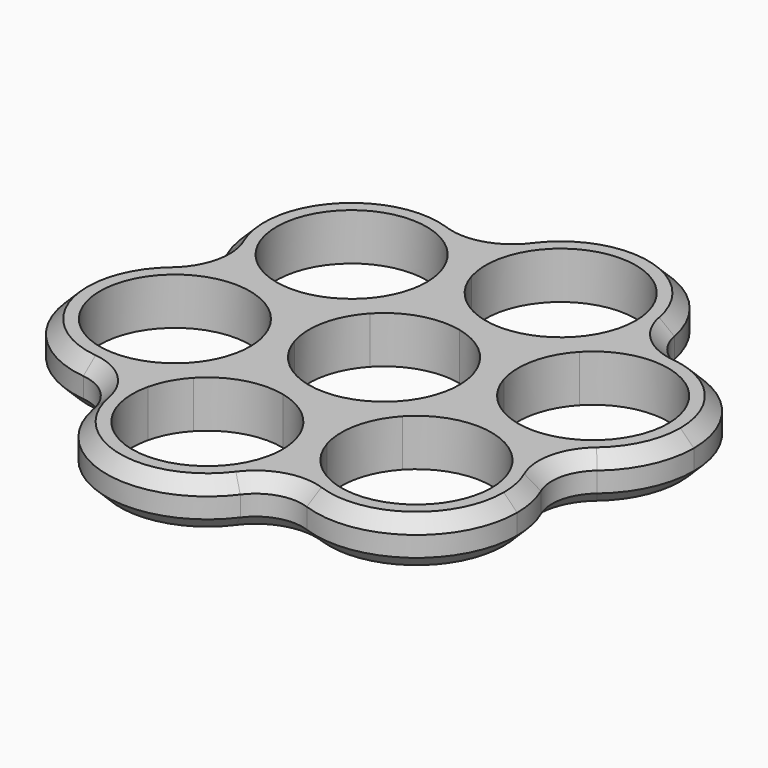
from build123d import *

# Parameters (mm, degrees)
F1_DEPTH = 7.0000002161
F2_R     = 7
F3_SIZE  = 2


with BuildPart() as f1:
    # F0 (on Top) → F1 (new body)
    with BuildSketch(Plane.XY):
        with BuildLine():
            ThreePointArc((-8.4351326883, 21.1270953256), (-9.0738701421, 24.8916615747), (-8.7414061831, 28.6955296448))
            ThreePointArc((-8.7414061831, 28.6955296448), (-8.8125213083, 28.7633007882), (-8.8840787432, 28.8306047437))
            Line((-8.8840787432, 28.8306047437), (-11.4955479594, 26.0358143163))
            ThreePointArc((-11.4955479594, 26.0358143163), (-9.6422177606, 23.7829104816), (-8.4351326883, 21.1270953256))
        make_face()
        with BuildLine():
            ThreePointArc((-26.7547210267, 9.7054702506), (-27.2903065259, 25.5002288171), (-11.4955479594, 26.0358143163))
            Line((-11.4955479594, 26.0358143163), (-8.8840787432, 28.8306047437))
            ThreePointArc((-8.8840787432, 28.8306047437), (-30.0850969532, 28.1116980333), (-29.3661902429, 6.9106798233))
            Line((-29.3661902429, 6.9106798233), (-26.7547210267, 9.7054702506))
        make_face()
        with BuildLine():
            ThreePointArc((-29.221760739, 6.777485003), (-25.4491514925, 7.3668602267), (-21.6499643665, 6.9846026404))
            ThreePointArc((-21.6499643665, 6.9846026404), (-24.3814472006, 8.0090094714), (-26.7547210267, 9.7054702506))
            Line((-26.7547210267, 9.7054702506), (-29.3661902429, 6.9106798233))
            ThreePointArc((-29.3661902429, 6.9106798233), (-29.2941935673, 6.8438459426), (-29.221760739, 6.777485003))
        make_face()
        with BuildLine():
            ThreePointArc((20.4803545559, 21.9180446418), (19.1044639174, 18.3561817107), (16.873825702, 15.2571180229))
            ThreePointArc((16.873825702, 15.2571180229), (19.126729384, 17.1104479973), (21.782544306, 18.3175329549))
            Line((21.782544306, 18.3175329549), (20.6679194058, 21.976526851))
            ThreePointArc((20.6679194058, 21.976526851), (20.5740412295, 21.9475928414), (20.4803545559, 21.9180446418))
        make_face()
        with BuildLine():
            ThreePointArc((28.2954505858, -3.0624705949), (25.417713525, -3.5410497115), (22.5141675883, -3.2585084667))
            ThreePointArc((22.5141675883, -3.2585084667), (26.0937463299, -4.5876287298), (29.221760739, -6.777485003))
            ThreePointArc((29.221760739, -6.777485003), (29.3160098334, -6.7497830698), (29.4100754861, -6.721464491))
            Line((29.4100754861, -6.721464491), (28.2954505858, -3.0624705949))
        make_face()
        with BuildLine():
            Line((20.6679194058, 21.976526851), (21.782544306, 18.3175329549))
            ThreePointArc((21.782544306, 18.3175329549), (31.6906799835, 16.6072719569), (36.2139974459, 7.62753118))
            ThreePointArc((36.2139974459, 7.62753118), (34.0187382228, 0.9758486424), (28.2954505858, -3.0624705949))
            Line((28.2954505858, -3.0624705949), (29.4100754861, -6.721464491))
            ThreePointArc((29.4100754861, -6.721464491), (37.0923407706, -1.3009017563), (40.0389974459, 7.62753118))
            ThreePointArc((40.0389974459, 7.62753118), (33.9674303823, 19.6808745046), (20.6679194058, 21.976526851))
        make_face()
        with BuildLine():
            ThreePointArc((-16.7999026264, -22.9733437214), (-15.7754958852, -20.2418609814), (-14.0790352427, -17.8685872048))
            ThreePointArc((-14.0790352427, -17.8685872048), (-17.0198763972, -20.304032969), (-20.4803545559, -21.9180446418))
            ThreePointArc((-20.4803545559, -21.9180446418), (-20.5034885252, -22.0135177185), (-20.5259967429, -22.1091402527))
            Line((-20.5259967429, -22.1091402527), (-16.7999026264, -22.9733437214))
        make_face()
        with BuildLine():
            Line((8.6982708371, -28.8872066743), (4.9721767206, -28.0230032056))
            ThreePointArc((4.9721767206, -28.0230032056), (-8.438692695, -36.384213137), (-16.7999026264, -22.9733437214))
            Line((-16.7999026264, -22.9733437214), (-20.5259967429, -22.1091402527))
            ThreePointArc((-20.5259967429, -22.1091402527), (-9.3028961638, -40.1103072535), (8.6982708371, -28.8872066743))
        make_face()
        with BuildLine():
            ThreePointArc((8.7414061831, -28.6955296448), (6.3446876438, -25.7230418106), (4.7761388613, -22.2417204526))
            ThreePointArc((4.7761388613, -22.2417204526), (5.1392224822, -23.8519877622), (5.2611370471, -25.4981734635))
            ThreePointArc((5.2611370471, -25.4981734635), (5.188661948, -26.7688291305), (4.9721767206, -28.0230032056))
            Line((4.9721767206, -28.0230032056), (8.6982708371, -28.8872066743))
            ThreePointArc((8.6982708371, -28.8872066743), (8.7201523378, -28.7914387839), (8.7414061831, -28.6955296448))
        make_face()
        with BuildLine():
            ThreePointArc((-8.7414061831, 28.6955296448), (-6.3446876395, 25.7230418037), (-4.7761388565, 22.241720437))
            ThreePointArc((-4.7761388565, 22.241720437), (4.2676772436, 36.5512588974), (17.0888629529, 25.4981734635))
            ThreePointArc((17.0888629529, 25.4981734635), (16.309208527, 21.3972692467), (14.0790346942, 17.8685866178))
            ThreePointArc((14.0790346942, 17.8685866178), (17.0198760578, 20.3040327543), (20.4803545559, 21.9180446418))
            ThreePointArc((20.4803545559, 21.9180446418), (20.8050914792, 23.6950337081), (20.9138629529, 25.4981734635))
            ThreePointArc((20.9138629529, 25.4981734635), (7.5218061981, 40.4117417327), (-8.7414061831, 28.6955296448))
        make_face()
        with BuildLine():
            ThreePointArc((-16.8738251198, -15.2571173998), (-35.7289991793, -10.8839844564), (-22.5141675633, 3.2585084609))
            ThreePointArc((-22.5141675633, 3.2585084609), (-26.0937463186, 4.5876287238), (-29.221760739, 6.777485003))
            ThreePointArc((-29.221760739, 6.777485003), (-39.387993117, -11.9986092201), (-20.4803545559, -21.9180446418))
            ThreePointArc((-20.4803545559, -21.9180446418), (-19.1044637144, -18.3561813358), (-16.8738251198, -15.2571173998))
        make_face()
        with BuildLine():
            ThreePointArc((29.221760739, -6.777485003), (25.4491514951, -7.3668602266), (21.6499643715, -6.9846026416))
            ThreePointArc((21.6499643715, -6.9846026416), (27.874294421, -10.9184609312), (30.300134493, -17.8706422835))
            ThreePointArc((30.300134493, -17.8706422835), (20.7713202626, -28.9237277084), (8.4351327191, -21.1270954265))
            ThreePointArc((8.4351327191, -21.1270954265), (8.9224933228, -23.288528139), (9.0861370471, -25.4981734635))
            ThreePointArc((9.0861370471, -25.4981734635), (8.9997053163, -27.1061167087), (8.7414061831, -28.6955296448))
            ThreePointArc((8.7414061831, -28.6955296448), (25.0091839214, -31.6683943585), (34.125134493, -17.8706422835))
            ThreePointArc((34.125134493, -17.8706422835), (32.8446350978, -11.806377847), (29.221760739, -6.777485003))
        make_face()
        with BuildLine():
            ThreePointArc((-4.125134493, 17.8706422835), (-4.2887782263, 20.0802876682), (-4.7761388565, 22.241720437))
            ThreePointArc((-4.7761388565, 22.241720437), (-6.3446876395, 25.7230418037), (-8.7414061831, 28.6955296448))
            ThreePointArc((-8.7414061831, 28.6955296448), (-9.0738701421, 24.8916615747), (-8.4351326883, 21.1270953256))
            ThreePointArc((-8.4351326883, 21.1270953256), (-6.8665839048, 17.6457739502), (-4.469865357, 14.6732861021))
            ThreePointArc((-4.469865357, 14.6732861021), (-4.2115662238, 16.2626990383), (-4.125134493, 17.8706422835))
        make_face()
        with BuildLine():
            ThreePointArc((-14.9423711999, 3.4656261004), (-18.0703856163, 5.6554823774), (-21.6499643665, 6.9846026404))
            ThreePointArc((-21.6499643665, 6.9846026404), (-25.4491514925, 7.3668602267), (-29.221760739, 6.777485003))
            ThreePointArc((-29.221760739, 6.777485003), (-26.0937463186, 4.5876287238), (-22.5141675633, 3.2585084609))
            ThreePointArc((-22.5141675633, 3.2585084609), (-18.7149804417, 2.8762508769), (-14.9423711999, 3.4656261004))
        make_face()
        with BuildLine():
            ThreePointArc((10.4725058429, 11.2076600017), (13.9329843395, 12.8216718882), (16.873825702, 15.2571180229))
            ThreePointArc((16.873825702, 15.2571180229), (19.1044639174, 18.3561817107), (20.4803545559, 21.9180446418))
            ThreePointArc((20.4803545559, 21.9180446418), (17.0198760578, 20.3040327543), (14.0790346942, 17.8685866178))
            ThreePointArc((14.0790346942, 17.8685866178), (11.8483964806, 14.7695229311), (10.4725058429, 11.2076600017))
        make_face()
        with BuildLine():
            ThreePointArc((29.221760739, -6.777485003), (26.0937463299, -4.5876287298), (22.5141675883, -3.2585084667))
            ThreePointArc((22.5141675883, -3.2585084667), (18.7149804545, -2.8762508765), (14.9423711999, -3.4656261004))
            ThreePointArc((14.9423711999, -3.4656261004), (18.0703856185, -5.6554823786), (21.6499643715, -6.9846026416))
            ThreePointArc((21.6499643715, -6.9846026416), (25.4491514951, -7.3668602266), (29.221760739, -6.777485003))
        make_face()
        with BuildLine():
            ThreePointArc((9.0861370471, -25.4981734635), (8.9224933228, -23.288528139), (8.4351327191, -21.1270954265))
            ThreePointArc((8.4351327191, -21.1270954265), (6.8665839325, -17.6457739952), (4.469865357, -14.6732861021))
            ThreePointArc((4.469865357, -14.6732861021), (4.1374013986, -18.4771541885), (4.7761388613, -22.2417204526))
            ThreePointArc((4.7761388613, -22.2417204526), (6.3446876438, -25.7230418106), (8.7414061831, -28.6955296448))
            ThreePointArc((8.7414061831, -28.6955296448), (8.9997053163, -27.1061167087), (9.0861370471, -25.4981734635))
        make_face()
        with BuildLine():
            ThreePointArc((-20.4803545559, -21.9180446418), (-17.0198763972, -20.304032969), (-14.0790352427, -17.8685872048))
            ThreePointArc((-14.0790352427, -17.8685872048), (-11.8483966718, -14.7695232843), (-10.4725058429, -11.2076600017))
            ThreePointArc((-10.4725058429, -11.2076600017), (-13.9329839791, -12.8216716603), (-16.8738251198, -15.2571173998))
            ThreePointArc((-16.8738251198, -15.2571173998), (-19.1044637144, -18.3561813358), (-20.4803545559, -21.9180446418))
        make_face()
        with BuildLine():
            ThreePointArc((-7.950134493, 17.8706422835), (-8.7297888391, 13.7697382691), (-10.9599624546, 10.2410557558))
            ThreePointArc((-10.9599624546, 10.2410557558), (-8.0191212043, 12.6765016906), (-4.55864289, 14.2905134618))
            ThreePointArc((-4.55864289, 14.2905134618), (-4.5130007031, 14.4816090726), (-4.469865357, 14.6732861021))
            ThreePointArc((-4.469865357, 14.6732861021), (-6.8665839048, 17.6457739502), (-8.4351326883, 21.1270953256))
            ThreePointArc((-8.4351326883, 21.1270953256), (-8.0720490603, 19.5168280009), (-7.950134493, 17.8706422835))
        make_face()
        with BuildLine():
            ThreePointArc((-14.566491603, 3.5801288217), (-11.106013295, 5.1941405889), (-8.1651720485, 7.6295865169))
            Line((-8.1651720328, 7.6295865336), (-10.9599624602, 10.2410557498))
            ThreePointArc((-10.9599624546, 10.2410557558), (-13.1906008618, 7.1419919424), (-14.566491603, 3.5801288217))
        make_face()
        with BuildLine():
            ThreePointArc((-14.566491603, 3.5801288217), (-13.1906008618, 7.1419919424), (-10.9599624546, 10.2410557558))
            ThreePointArc((-10.9599624546, 10.2410557558), (-15.8686814137, 7.1806404901), (-21.6499643665, 6.9846026404))
            ThreePointArc((-21.6499643665, 6.9846026404), (-18.0703856163, 5.6554823774), (-14.9423711999, 3.4656261004))
            ThreePointArc((-14.9423711999, 3.4656261004), (-14.7540564529, 3.5216466124), (-14.566491603, 3.5801288217))
        make_face()
        with BuildLine():
            Line((-10.9599624602, 10.2410557498), (-8.1651720328, 7.6295865336))
            ThreePointArc((-8.1651720485, 7.6295865169), (-5.9345336348, 10.7286503345), (-4.55864289, 14.2905134618))
            ThreePointArc((-4.55864289, 14.2905134618), (-8.0191212043, 12.6765016906), (-10.9599624546, 10.2410557558))
        make_face()
        with BuildLine():
            ThreePointArc((-4.1827632931, 14.4050161831), (-0.4101539781, 14.9943914086), (3.3890332129, 14.6121337895))
            ThreePointArc((3.3890332129, 14.6121337895), (-1.7157236232, 17.3330014704), (-4.7761388565, 22.241720437))
            ThreePointArc((-4.7761388565, 22.241720437), (-4.2887782263, 20.0802876682), (-4.125134493, 17.8706422835))
            ThreePointArc((-4.125134493, 17.8706422835), (-4.2115662238, 16.2626990383), (-4.469865357, 14.6732861021))
            ThreePointArc((-4.469865357, 14.6732861021), (-4.3271927969, 14.5382110033), (-4.1827632931, 14.4050161831))
        make_face()
        with BuildLine():
            ThreePointArc((-4.1827632931, 14.4050161831), (-1.0547489214, 12.2151599295), (2.5248297753, 10.8860396658))
            Line((2.5248297421, 10.8860396735), (3.3890332108, 14.61213379))
            ThreePointArc((3.3890332129, 14.6121337895), (-0.4101539781, 14.9943914086), (-4.1827632931, 14.4050161831))
        make_face()
        with BuildLine():
            Line((3.3890332108, 14.61213379), (2.5248297421, 10.8860396735))
            ThreePointArc((2.5248297753, 10.8860396658), (6.3240169491, 10.5037820554), (10.096626246, 11.0931572804))
            ThreePointArc((10.096626246, 11.0931572804), (6.9686118904, 13.2830135256), (3.3890332129, 14.6121337895))
        make_face()
        with BuildLine():
            ThreePointArc((14.0790346942, 17.8685866178), (9.1703158896, 14.8081716267), (3.3890332129, 14.6121337895))
            ThreePointArc((3.3890332129, 14.6121337895), (6.9686118904, 13.2830135256), (10.096626246, 11.0931572804))
            ThreePointArc((10.096626246, 11.0931572804), (10.284940993, 11.1491777925), (10.4725058429, 11.2076600017))
            ThreePointArc((10.4725058429, 11.2076600017), (11.8483964806, 14.7695229311), (14.0790346942, 17.8685866178))
        make_face()
        with BuildLine():
            ThreePointArc((10.3837283099, 10.8248873614), (12.7804468788, 7.8523994791), (14.3489956646, 4.3710780611))
            ThreePointArc((14.3489956646, 4.3710780611), (14.1529578227, 10.1523611389), (16.873825702, 15.2571180229))
            ThreePointArc((16.873825702, 15.2571180229), (13.9329843395, 12.8216718882), (10.4725058429, 11.2076600017))
            ThreePointArc((10.4725058429, 11.2076600017), (10.426863656, 11.0165643909), (10.3837283099, 10.8248873614))
        make_face()
        with BuildLine():
            ThreePointArc((10.3837283099, 10.8248873614), (10.0512643488, 7.0210193435), (10.6900017742, 3.2564531422))
            Line((10.6900017749, 3.2564531399), (14.348995671, 4.3710780401))
            ThreePointArc((14.3489956646, 4.3710780611), (12.7804468788, 7.8523994791), (10.3837283099, 10.8248873614))
        make_face()
        with BuildLine():
            Line((14.348995671, 4.3710780401), (10.6900017749, 3.2564531399))
            ThreePointArc((10.6900017742, 3.2564531422), (12.2585505608, -0.2248682887), (14.655269136, -3.1973561813))
            ThreePointArc((14.655269136, -3.1973561813), (14.9135682692, -1.6079432452), (15, 0))
            ThreePointArc((15, 0), (14.8363562739, 2.209645337), (14.3489956646, 4.3710780611))
        make_face()
        with BuildLine():
            ThreePointArc((22.5141675883, -3.2585084667), (17.409410861, -0.5376408048), (14.3489956646, 4.3710780611))
            ThreePointArc((14.3489956646, 4.3710780611), (14.8363562739, 2.209645337), (15, 0))
            ThreePointArc((15, 0), (14.9135682692, -1.6079432452), (14.655269136, -3.1973561813))
            ThreePointArc((14.655269136, -3.1973561813), (14.7979416961, -3.3324312802), (14.9423711999, -3.4656261004))
            ThreePointArc((14.9423711999, -3.4656261004), (18.7149804545, -2.8762508765), (22.5141675883, -3.2585084667))
        make_face()
        with BuildLine():
            ThreePointArc((-10.690001784, -3.2564531102), (-10.8860396726, 2.524829746), (-8.1651720485, 7.6295865169))
            ThreePointArc((-8.1651720485, 7.6295865169), (-11.106013295, 5.1941405889), (-14.566491603, 3.5801288217))
            ThreePointArc((-14.566491603, 3.5801288217), (-14.61213379, 3.3890332108), (-14.655269136, 3.1973561813))
            ThreePointArc((-14.655269136, 3.1973561813), (-12.2585505696, 0.2248683029), (-10.690001784, -3.2564531102))
        make_face()
        with BuildLine():
            ThreePointArc((-22.5141675633, 3.2585084609), (-17.4094108622, 0.537640806), (-14.3489956731, -4.3710780333))
            ThreePointArc((-14.3489956731, -4.3710780333), (-14.9877330973, -0.6065118342), (-14.655269136, 3.1973561813))
            ThreePointArc((-14.655269136, 3.1973561813), (-14.7979416961, 3.3324312802), (-14.9423711999, 3.4656261004))
            ThreePointArc((-14.9423711999, 3.4656261004), (-18.7149804417, 2.8762508769), (-22.5141675633, 3.2585084609))
        make_face()
        with BuildLine():
            Line((-14.348995671, -4.3710780401), (-10.6900017749, -3.2564531399))
            ThreePointArc((-10.690001784, -3.2564531102), (-12.2585505696, 0.2248683029), (-14.655269136, 3.1973561813))
            ThreePointArc((-14.655269136, 3.1973561813), (-14.9877330973, -0.6065118342), (-14.3489956731, -4.3710780333))
        make_face()
        with BuildLine():
            ThreePointArc((-10.0389974459, -7.62753118), (-10.2026411728, -5.4178858385), (-10.690001784, -3.2564531102))
            Line((-10.6900017749, -3.2564531399), (-14.348995671, -4.3710780401))
            ThreePointArc((-14.3489956731, -4.3710780333), (-12.7804468864, -7.8523994667), (-10.3837283099, -10.8248873614))
            ThreePointArc((-10.3837283099, -10.8248873614), (-10.1254291767, -9.2354744252), (-10.0389974459, -7.62753118))
        make_face()
        with BuildLine():
            ThreePointArc((-10.3837283099, -10.8248873614), (-12.7804468864, -7.8523994667), (-14.3489956731, -4.3710780333))
            ThreePointArc((-14.3489956731, -4.3710780333), (-13.9859120212, -5.9813454085), (-13.8639974459, -7.62753118))
            ThreePointArc((-13.8639974459, -7.62753118), (-14.6436517147, -11.7284349984), (-16.8738251198, -15.2571173998))
            ThreePointArc((-16.8738251198, -15.2571173998), (-13.9329839791, -12.8216716603), (-10.4725058429, -11.2076600017))
            ThreePointArc((-10.4725058429, -11.2076600017), (-10.426863656, -11.0165643909), (-10.3837283099, -10.8248873614))
        make_face()
        with BuildLine():
            ThreePointArc((-10.096626246, -11.0931572804), (-6.3240169573, -10.5037820556), (-2.5248297912, -10.8860396621))
            ThreePointArc((-2.5248297912, -10.8860396621), (-7.6295865634, -8.165172005), (-10.690001784, -3.2564531102))
            ThreePointArc((-10.690001784, -3.2564531102), (-10.2026411728, -5.4178858385), (-10.0389974459, -7.62753118))
            ThreePointArc((-10.0389974459, -7.62753118), (-10.1254291767, -9.2354744252), (-10.3837283099, -10.8248873614))
            ThreePointArc((-10.3837283099, -10.8248873614), (-10.2410557498, -10.9599624602), (-10.096626246, -11.0931572804))
        make_face()
        with BuildLine():
            Line((-3.3890332108, -14.61213379), (-2.5248297421, -10.8860396735))
            ThreePointArc((-2.5248297912, -10.8860396621), (-6.3240169573, -10.5037820556), (-10.096626246, -11.0931572804))
            ThreePointArc((-10.096626246, -11.0931572804), (-6.96861186, -13.2830135415), (-3.3890331462, -14.612133805))
        make_face()
        with BuildLine():
            ThreePointArc((-14.0790352427, -17.8685872048), (-9.1703162411, -14.8081717337), (-3.3890331462, -14.612133805))
            ThreePointArc((-3.3890331462, -14.612133805), (-6.96861186, -13.2830135415), (-10.096626246, -11.0931572804))
            ThreePointArc((-10.096626246, -11.0931572804), (-10.284940993, -11.1491777925), (-10.4725058429, -11.2076600017))
            ThreePointArc((-10.4725058429, -11.2076600017), (-11.8483966718, -14.7695232843), (-14.0790352427, -17.8685872048))
        make_face()
        with BuildLine():
            ThreePointArc((4.1827632931, -14.4050161831), (1.0547489142, -12.2151599257), (-2.5248297912, -10.8860396621))
            Line((-2.5248297421, -10.8860396735), (-3.3890332108, -14.61213379))
            ThreePointArc((-3.3890331462, -14.612133805), (0.4101540124, -14.9943914077), (4.1827632931, -14.4050161831))
        make_face()
        with BuildLine():
            ThreePointArc((4.1827632931, -14.4050161831), (0.4101540124, -14.9943914077), (-3.3890331462, -14.612133805))
            ThreePointArc((-3.3890331462, -14.612133805), (1.7157236542, -17.3330014993), (4.7761388613, -22.2417204526))
            ThreePointArc((4.7761388613, -22.2417204526), (4.1374013986, -18.4771541885), (4.469865357, -14.6732861021))
            ThreePointArc((4.469865357, -14.6732861021), (4.3271927969, -14.5382110033), (4.1827632931, -14.4050161831))
        make_face()
        with BuildLine():
            ThreePointArc((4.55864289, -14.2905134618), (5.934533619, -10.7286503637), (8.1651720032, -7.6295865653))
            ThreePointArc((8.1651720032, -7.6295865653), (3.256453095, -10.6900017886), (-2.5248297912, -10.8860396621))
            ThreePointArc((-2.5248297912, -10.8860396621), (1.0547489142, -12.2151599257), (4.1827632931, -14.4050161831))
            ThreePointArc((4.1827632931, -14.4050161831), (4.3710780401, -14.348995671), (4.55864289, -14.2905134618))
        make_face()
        with BuildLine():
            ThreePointArc((10.6900017742, 3.2564531422), (11.053085425, 1.6461857692), (11.175, 0))
            ThreePointArc((11.175, 0), (10.3953456445, -4.1009040384), (8.1651720032, -7.6295865653))
            ThreePointArc((8.1651720032, -7.6295865653), (11.106013267, -5.1941406067), (14.566491603, -3.5801288217))
            ThreePointArc((14.566491603, -3.5801288217), (14.61213379, -3.3890332108), (14.655269136, -3.1973561813))
            ThreePointArc((14.655269136, -3.1973561813), (12.2585505608, -0.2248682887), (10.6900017742, 3.2564531422))
        make_face()
        with BuildLine():
            ThreePointArc((14.566491603, -3.5801288217), (13.1906008589, -7.1419919476), (10.9599624465, -10.2410557644))
            ThreePointArc((10.9599624465, -10.2410557644), (15.8686814105, -7.1806404911), (21.6499643715, -6.9846026416))
            ThreePointArc((21.6499643715, -6.9846026416), (18.0703856185, -5.6554823786), (14.9423711999, -3.4656261004))
            ThreePointArc((14.9423711999, -3.4656261004), (14.7540564529, -3.5216466124), (14.566491603, -3.5801288217))
        make_face()
        with BuildLine():
            ThreePointArc((14.566491603, -3.5801288217), (11.106013267, -5.1941406067), (8.1651720032, -7.6295865653))
            Line((8.1651720328, -7.6295865336), (10.9599624602, -10.2410557498))
            ThreePointArc((10.9599624465, -10.2410557644), (13.1906008589, -7.1419919476), (14.566491603, -3.5801288217))
        make_face()
        with BuildLine():
            Line((10.9599624602, -10.2410557498), (8.1651720328, -7.6295865336))
            ThreePointArc((8.1651720032, -7.6295865653), (5.934533619, -10.7286503637), (4.55864289, -14.2905134618))
            ThreePointArc((4.55864289, -14.2905134618), (8.0191211993, -12.6765016937), (10.9599624465, -10.2410557644))
        make_face()
        with BuildLine():
            ThreePointArc((8.4351327191, -21.1270954265), (8.2390948169, -15.3458125527), (10.9599624465, -10.2410557644))
            ThreePointArc((10.9599624465, -10.2410557644), (8.0191211993, -12.6765016937), (4.55864289, -14.2905134618))
            ThreePointArc((4.55864289, -14.2905134618), (4.5130007031, -14.4816090726), (4.469865357, -14.6732861021))
            ThreePointArc((4.469865357, -14.6732861021), (6.8665839325, -17.6457739952), (8.4351327191, -21.1270954265))
        make_face()
        with BuildLine():
            ThreePointArc((-8.1651720485, 7.6295865169), (-3.2564531345, 10.6900017765), (2.5248297753, 10.8860396658))
            ThreePointArc((2.5248297753, 10.8860396658), (-1.0547489214, 12.2151599295), (-4.1827632931, 14.4050161831))
            ThreePointArc((-4.1827632931, 14.4050161831), (-4.3710780401, 14.348995671), (-4.55864289, 14.2905134618))
            ThreePointArc((-4.55864289, 14.2905134618), (-5.9345336348, 10.7286503345), (-8.1651720485, 7.6295865169))
        make_face()
        with BuildLine():
            ThreePointArc((2.5248297753, 10.8860396658), (7.6295865452, 8.165172022), (10.6900017742, 3.2564531422))
            ThreePointArc((10.6900017742, 3.2564531422), (10.0512643488, 7.0210193435), (10.3837283099, 10.8248873614))
            ThreePointArc((10.3837283099, 10.8248873614), (10.2410557498, 10.9599624602), (10.096626246, 11.0931572804))
            ThreePointArc((10.096626246, 11.0931572804), (6.3240169491, 10.5037820554), (2.5248297753, 10.8860396658))
        make_face()
        with BuildLine():
            ThreePointArc((4.469865357, -14.6732861021), (4.5130007031, -14.4816090726), (4.55864289, -14.2905134618))
            ThreePointArc((4.55864289, -14.2905134618), (4.3710780401, -14.348995671), (4.1827632931, -14.4050161831))
            ThreePointArc((4.1827632931, -14.4050161831), (4.3271927969, -14.5382110033), (4.469865357, -14.6732861021))
        make_face()
        with BuildLine():
            ThreePointArc((-10.4725058429, -11.2076600017), (-10.284940993, -11.1491777925), (-10.096626246, -11.0931572804))
            ThreePointArc((-10.096626246, -11.0931572804), (-10.2410557498, -10.9599624602), (-10.3837283099, -10.8248873614))
            ThreePointArc((-10.3837283099, -10.8248873614), (-10.426863656, -11.0165643909), (-10.4725058429, -11.2076600017))
        make_face()
        with BuildLine():
            ThreePointArc((-14.655269136, 3.1973561813), (-14.61213379, 3.3890332108), (-14.566491603, 3.5801288217))
            ThreePointArc((-14.566491603, 3.5801288217), (-14.7540564529, 3.5216466124), (-14.9423711999, 3.4656261004))
            ThreePointArc((-14.9423711999, 3.4656261004), (-14.7979416961, 3.3324312802), (-14.655269136, 3.1973561813))
        make_face()
        with BuildLine():
            ThreePointArc((-4.55864289, 14.2905134618), (-4.3710780401, 14.348995671), (-4.1827632931, 14.4050161831))
            ThreePointArc((-4.1827632931, 14.4050161831), (-4.3271927969, 14.5382110033), (-4.469865357, 14.6732861021))
            ThreePointArc((-4.469865357, 14.6732861021), (-4.5130007031, 14.4816090726), (-4.55864289, 14.2905134618))
        make_face()
        with BuildLine():
            ThreePointArc((10.096626246, 11.0931572804), (10.2410557498, 10.9599624602), (10.3837283099, 10.8248873614))
            ThreePointArc((10.3837283099, 10.8248873614), (10.426863656, 11.0165643909), (10.4725058429, 11.2076600017))
            ThreePointArc((10.4725058429, 11.2076600017), (10.284940993, 11.1491777925), (10.096626246, 11.0931572804))
        make_face()
        with BuildLine():
            ThreePointArc((14.9423711999, -3.4656261004), (14.7979416961, -3.3324312802), (14.655269136, -3.1973561813))
            ThreePointArc((14.655269136, -3.1973561813), (14.61213379, -3.3890332108), (14.566491603, -3.5801288217))
            ThreePointArc((14.566491603, -3.5801288217), (14.7540564529, -3.5216466124), (14.9423711999, -3.4656261004))
        make_face()
    extrude(amount=-F1_DEPTH)

    # F2
    f2_edges = [f1.edges().sort_by_distance(p)[0] for p in [
        (-20.480355, -21.918045, -3.5),
        (8.741406, -28.69553, -3.5),
        (29.221761, -6.777485, -3.5),
        (20.480355, 21.918045, -3.5),
        (-8.741406, 28.69553, -3.5),
        (-29.221761, 6.777485, -3.5),
    ]]
    fillet(f2_edges, radius=F2_R)

    # F3
    f3_edges = [f1.edges().sort_by_distance(p)[0] for p in [
        (32.489622, -7.535409, 0),
        (32.489622, -7.535409, -7),
    ]]
    chamfer(f3_edges, length=F3_SIZE)


solid = f1.part
